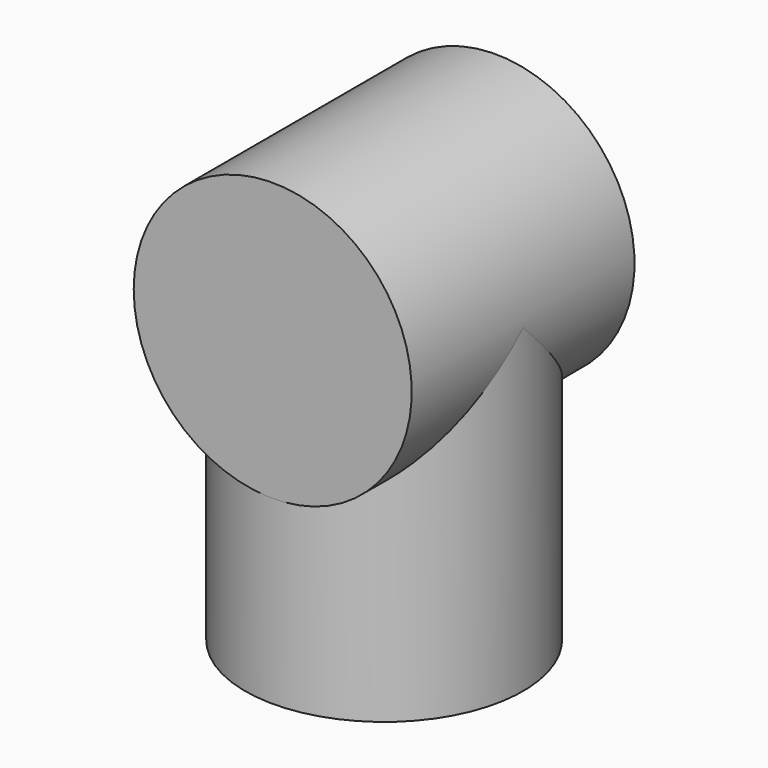
from build123d import *

# Parameters (mm, degrees)
CYLINDER024_R             = 13.9827
CYLINDER024_DEPTH         = 28.0162
CYLINDER023_R             = 13.9827
CYLINDER023_DEPTH         = 32.1945
FUSION011_PLACEMENT_ANGLE = 180


with BuildPart() as cylinder024:
    # Cylinder024 → Cylinder024 (new body)
    with BuildSketch(Plane.XZ.offset(-14.0081)):
        Circle(CYLINDER024_R)
    extrude(amount=CYLINDER024_DEPTH)


with BuildPart() as front_slip_l:
    # Cylinder023 → Cylinder023 (new body)
    with BuildSketch(Plane.XY):
        Circle(CYLINDER023_R)
    extrude(amount=CYLINDER023_DEPTH)

    # Fusion011: union Cylinder024
    add(cylinder024.part)


with BuildPart() as front_slip_l_1:
    # Fusion011 placement: moved
    add(front_slip_l.part.moved(Location((730.25, -50.3, 406))).rotate(Axis((730.25, -50.3, 406), (0, 1, 0)), FUSION011_PLACEMENT_ANGLE))


solid = front_slip_l_1.part
